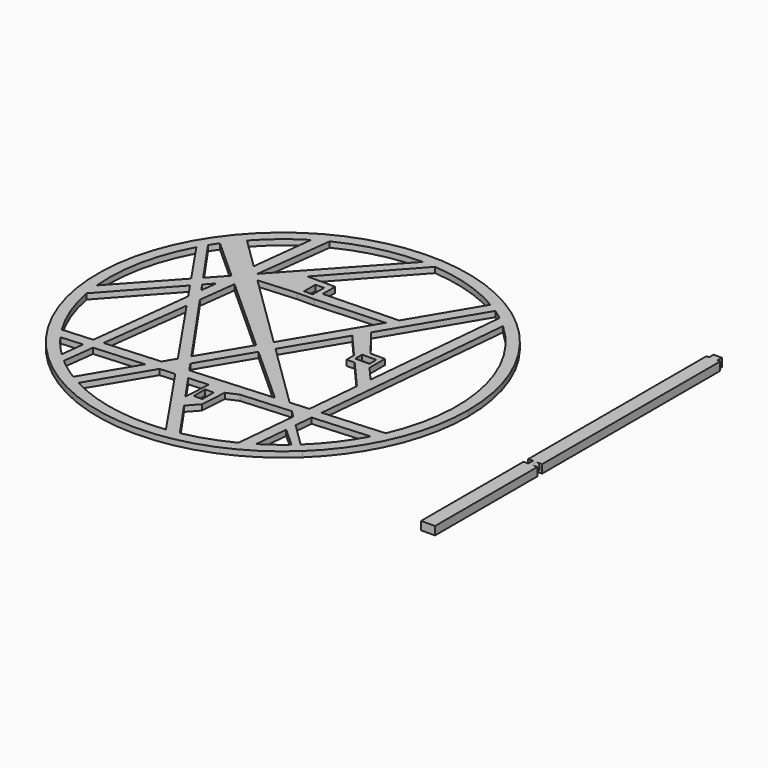
from build123d import *

# Parameters (mm, degrees)
F1_DEPTH = 2
F3_DEPTH = 3
F4_R     = 1


with BuildPart() as f1:
    # F0 (on Top) → F1 (new body)
    with BuildSketch(Plane.XY):
        with BuildLine():
            ThreePointArc((45.67717, -48.330592), (61.072833, -26.312718), (66.5, 0))
            ThreePointArc((66.5, 0), (-61.072833, 26.312718), (45.67717, -48.330592))
        make_face()
        with BuildLine():
            ThreePointArc((-43.780877, -44.603641), (-47.335242, -40.812067), (-50.562311, -36.738301))
            Line((-50.562311, -36.738301), (-42.816252, -36.20253))
            Line((-42.816252, -36.20253), (-43.780877, -44.603641))
        make_face(mode=Mode.SUBTRACT)
        with BuildLine():
            Line((-21.68285, -34.740797), (-32.732565, -53.243114))
            ThreePointArc((-32.732565, -53.243114), (-36.904467, -50.441157), (-40.837765, -47.313074))
            Line((-40.837765, -47.313074), (-39.417844, -35.967472))
            Line((-39.417844, -35.967472), (-21.68285, -34.740797))
        make_face(mode=Mode.SUBTRACT)
        with BuildLine():
            ThreePointArc((7.616283, -62.034202), (-11.343846, -61.461916), (-29.259066, -55.228227))
            Line((-29.259066, -55.228227), (-16.823085, -34.404662))
            Line((-16.823085, -34.404662), (-11.449525, -34.032989))
            Line((-11.449525, -34.032989), (7.616283, -62.034202))
        make_face(mode=Mode.SUBTRACT)
        Polygon((-0.668951, -42.954418), (-7.058937, -33.729305), (0, -33.24106), align=None, mode=Mode.SUBTRACT)
        with BuildLine():
            Line((-42.352184, -32.160875), (-53.135646, -32.906734))
            ThreePointArc((-53.135646, -32.906734), (-58.308309, -22.503136), (-61.465967, -11.321879))
            Line((-61.465967, -11.321879), (-41.795781, 10.535383))
            Line((-41.795781, 10.535383), (-38.076881, 5.073577))
            Line((-38.076881, 5.073577), (-42.352184, -32.160875))
        make_face(mode=Mode.SUBTRACT)
        Polygon((-14.05681, -30.20377), (-14.325376, -30.222346), (-14.193975, -30.002321), align=None, mode=Mode.SUBTRACT)
        Polygon((-19.185142, -30.558481), (-38.91166, -31.922904), (-34.870787, 0.364911), (-16.676015, -26.357046), align=None, mode=Mode.SUBTRACT)
        Polygon((-32.544699, 18.951066), (-4.636751, -6.197768), (-14.587673, -22.860198), (-34.228717, 5.495242), align=None, mode=Mode.SUBTRACT)
        with BuildLine():
            ThreePointArc((28.528164, -55.609297), (20.492711, -59.044888), (12.056602, -61.326082))
            Line((12.056602, -61.326082), (2.498833, -47.527694))
            Line((2.498833, -47.527694), (5.88985, -43.752815))
            Line((5.88985, -43.752815), (6.543981, -34.254646))
            Line((6.543981, -34.254646), (10.608449, -32.507306))
            Line((10.608449, -32.507306), (28.275834, -31.285307))
            Line((28.275834, -31.285307), (30.599067, -33.561005))
            Line((30.599067, -33.561005), (28.528164, -55.609297))
        make_face(mode=Mode.SUBTRACT)
        Polygon((4.059471, -41.221074), (0.959471, -41.221074), (0.959471, -37.121074), (0.959471, -36.121074), (4.059471, -36.121074), (4.059471, -37.121074), align=None, mode=Mode.SUBTRACT)
        with BuildLine():
            ThreePointArc((40.915139, -47.246179), (37.014038, -50.360808), (32.876809, -53.154166))
            Line((32.876809, -53.154166), (34.01569, -41.028843))
            Line((34.01569, -41.028843), (40.915139, -47.246179))
        make_face(mode=Mode.SUBTRACT)
        with BuildLine():
            ThreePointArc((55.138781, -29.42728), (49.635394, -37.98128), (42.817399, -45.529335))
            Line((42.817399, -45.529335), (34.370157, -37.254934))
            Line((34.370157, -37.254934), (34.974377, -30.82199))
            Line((34.974377, -30.82199), (55.138781, -29.42728))
        make_face(mode=Mode.SUBTRACT)
        Polygon((-1.6078, -8.927261), (19.4325, -27.887417), (-9.70927, -29.903064), (-12.08575, -26.47218), align=None, mode=Mode.SUBTRACT)
        Polygon((32.998498, -8.014978), (31.208467, -27.072909), (24.452496, -27.540199), (0.997375, -4.564996), (12.786862, 15.17604), (20.669769, 6.13112), (20.669769, 2.772164), (23.597196, 2.772164), align=None, mode=Mode.SUBTRACT)
        with BuildLine():
            ThreePointArc((-62.231444, -5.787693), (-61.225117, 12.559263), (-54.927004, 29.820701))
            Line((-54.927004, 29.820701), (-44.139021, 13.976808))
            Line((-44.139021, 13.976808), (-62.231444, -5.787693))
        make_face(mode=Mode.SUBTRACT)
        Polygon((-37.488162, 10.200846), (-39.492612, 13.094637), (-36.814154, 16.070904), align=None, mode=Mode.SUBTRACT)
        with BuildLine():
            Line((-41.841885, 16.486242), (-53.17351, 32.845515))
            ThreePointArc((-53.17351, 32.845515), (-52.225202, 34.33334), (-51.235277, 35.793804))
            Line((-51.235277, 35.793804), (-36.402932, 22.427856))
            Line((-36.402932, 22.427856), (-41.841885, 16.486242))
        make_face(mode=Mode.SUBTRACT)
        Polygon((15.272228, 27.139041), (-1.942095, -1.685671), (-28.969051, 24.788284), (-15.503333, 25.775585), (-9.503333, 25.775585), align=None, mode=Mode.SUBTRACT)
        Polygon((-11.503333, 27.775585), (-14.603333, 27.775585), (-14.603333, 31.875585), (-14.603333, 32.875585), (-11.503333, 32.875585), (-11.503333, 31.875585), align=None, mode=Mode.SUBTRACT)
        with BuildLine():
            ThreePointArc((-46.40466, 41.867141), (-39.884841, 48.119117), (-32.531892, 53.365963))
            Line((-32.531892, 53.365963), (-35.121264, 30.814616))
            Line((-35.121264, 30.814616), (-46.40466, 41.867141))
        make_face(mode=Mode.SUBTRACT)
        with BuildLine():
            Line((-31.429633, 27.860781), (-27.918226, 55.917999))
            ThreePointArc((-27.918226, 55.917999), (-14.206221, 60.864056), (0.278538, 62.499379))
            Line((0.278538, 62.499379), (-31.429633, 27.860781))
        make_face(mode=Mode.SUBTRACT)
        Polygon((22.169769, 7.872164), (22.669769, 7.872164), (26.769769, 7.872164), (27.269769, 7.872164), (27.269769, 4.772164), (26.769769, 4.772164), (22.669769, 4.772164), (22.169769, 4.772164), align=None, mode=Mode.SUBTRACT)
        with BuildLine():
            ThreePointArc((34.748479, 51.949911), (36.589872, 50.669826), (38.384156, 49.324503))
            Line((38.384156, 49.324503), (33.514695, -2.519183))
            Line((33.514695, -2.519183), (28.769769, 2.925189))
            Line((28.769769, 2.925189), (28.769769, 9.872164))
            Line((28.769769, 9.872164), (23.58681, 9.872164))
            Line((23.58681, 9.872164), (15.676968, 20.01541))
            Line((15.676968, 20.01541), (34.748479, 51.949911))
        make_face(mode=Mode.SUBTRACT)
        with BuildLine():
            ThreePointArc((42.199577, 46.102556), (61.170902, 12.820715), (57.1601, -25.277914))
            Line((57.1601, -25.277914), (35.35344, -26.786214))
            Line((35.35344, -26.786214), (42.199577, 46.102556))
        make_face(mode=Mode.SUBTRACT)
        with BuildLine():
            ThreePointArc((4.802843, 62.315188), (18.542692, 59.686), (31.353587, 54.06665))
            Line((31.353587, 54.06665), (17.323154, 30.573237))
            Line((17.323154, 30.573237), (-9.503333, 29.775585))
            Line((-9.503333, 29.775585), (-9.503333, 35.370889))
            Line((-9.503333, 35.370889), (-19.445361, 35.370889))
            Line((-19.445361, 35.370889), (4.802843, 62.315188))
        make_face(mode=Mode.SUBTRACT)
    extrude(amount=F1_DEPTH)


with BuildPart() as f3:
    # F2 (on Top) → F3 (new body)
    with BuildSketch(Plane.XY):
        Polygon((103.382982, 67.939314), (100.382982, 67.939314), (100.382982, 65.939314), (99.382982, 65.939314), (99.382982, -14.060686), (100.382982, -14.060686), (100.382982, -16.160686), (99.382982, -16.160686), (99.382982, -62.160686), (100.382982, -62.160686), (103.382982, -62.160686), (104.382982, -62.160686), (104.382982, -16.160686), (103.382982, -16.160686), (103.382982, -14.060686), (104.382982, -14.060686), (104.382982, 65.939314), (103.382982, 65.939314), align=None)
    extrude(amount=F3_DEPTH)

    # F4
    f4_edges = [f3.edges().sort_by_distance(p)[0] for p in [
        (103.382982, -15.110686, 3),
        (100.382982, -15.110686, 3),
        (103.382982, -15.110686, 0),
        (100.382982, -15.110686, 0),
    ]]
    fillet(f4_edges, radius=F4_R)


solid = Compound([f1.part, f3.part])
